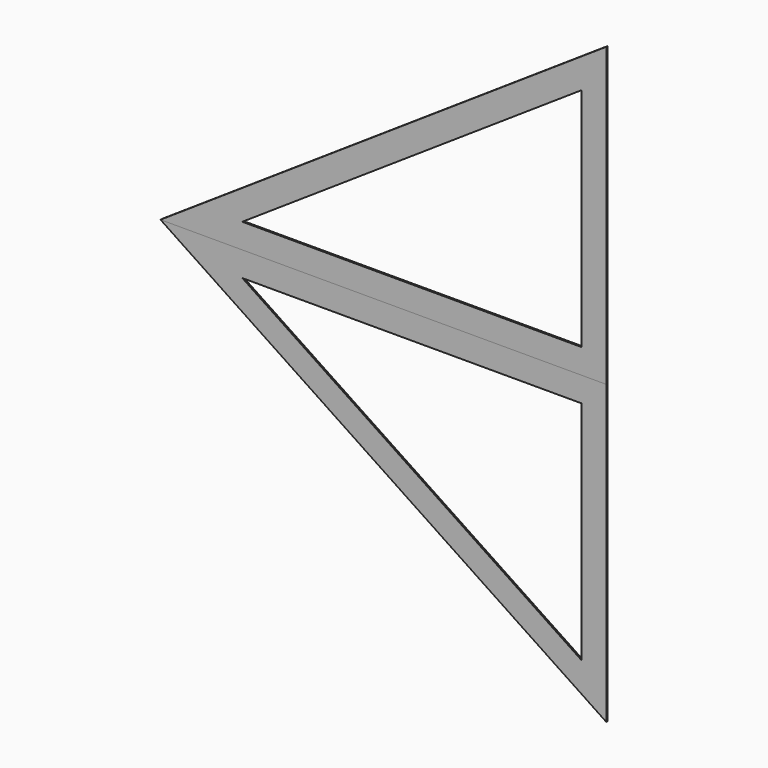
from build123d import *

# Parameters (mm, degrees)
F1_DEPTH = 3.175
F2_DEPTH = 3.175


with BuildPart() as f1:
    # F0 (on Front) → F1 (new body)
    with BuildSketch(Plane.XZ):
        Polygon((-914.4, 0), (0, 0), (0, 609.6), align=None)
        Polygon((-746.618998, 50.8), (-50.8, 514.679332), (-50.8, 50.8), align=None, mode=Mode.SUBTRACT)
    extrude(amount=F1_DEPTH)


with BuildPart() as f2:
    # F0 (on Front) → F2 (new body)
    with BuildSketch(Plane.XZ):
        Polygon((0, -609.6), (0, 0), (-914.4, 0), align=None)
        Polygon((-746.618998, -50.8), (-50.8, -50.8), (-50.8, -514.679332), align=None, mode=Mode.SUBTRACT)
    extrude(amount=F2_DEPTH)


solid = Compound([f1.part, f2.part])
